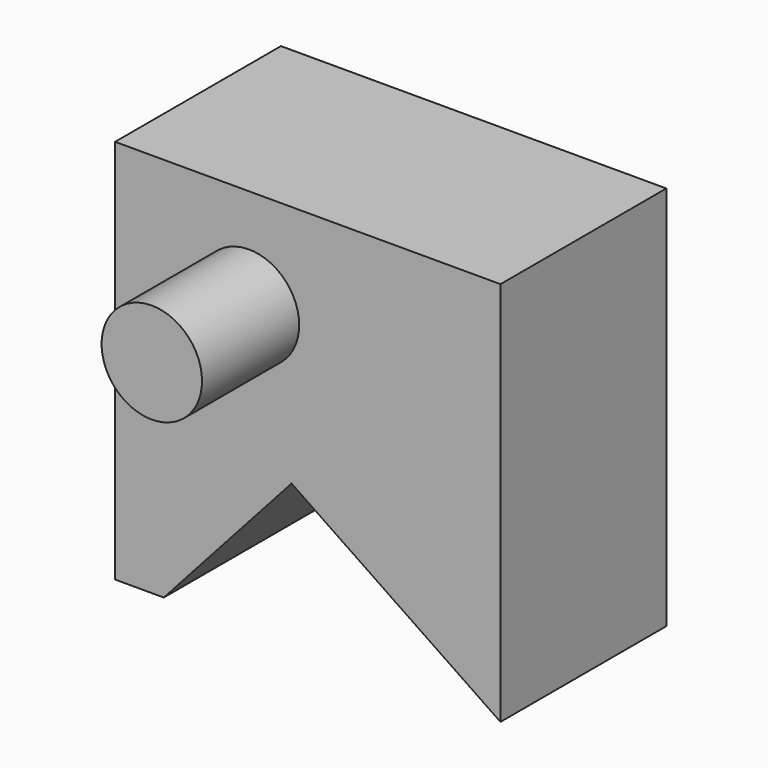
from build123d import *

# Parameters (mm, degrees)
F1_DEPTH = 42.926
F2_R     = 10.398711
F3_DEPTH = 68.072


with BuildPart() as f1:
    # F0 (on Front) → F1 (new body)
    with BuildSketch(Plane.XZ):
        Polygon((36.75, 34.019999), (-43.050002, 34.019999), (-43.050002, -45.779999), (-32.97, -45.779999), (-6.509999, -16.380001), (36.75, -45.779999), align=None)
    extrude(amount=F1_DEPTH)

    # F2 (on Front) → F3 (join)
    with BuildSketch(Plane.XZ):
        with Locations((-15.329997, 13.02)):
            Circle(F2_R)
    extrude(amount=F3_DEPTH)


solid = f1.part
